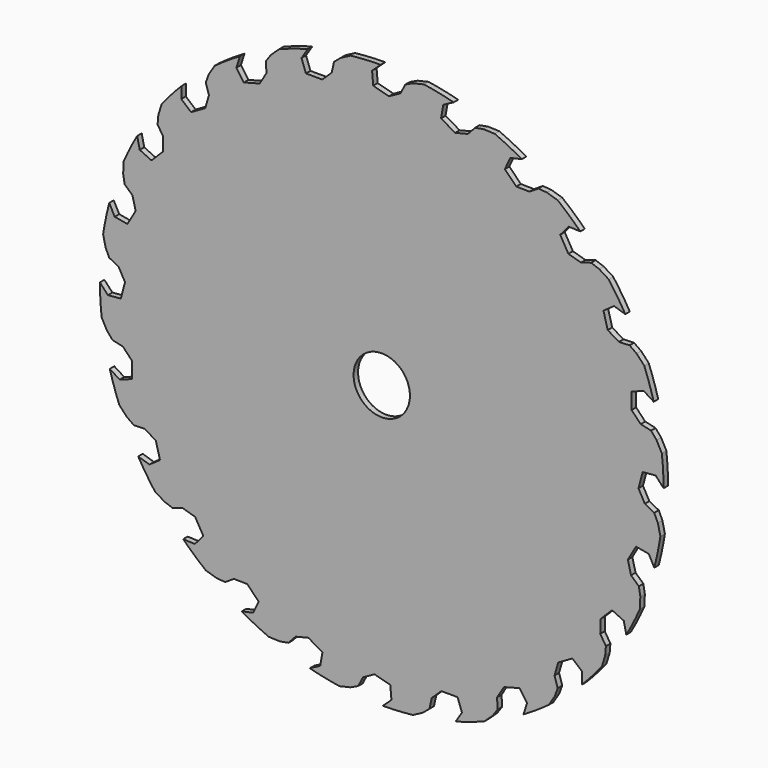
from build123d import *

# Parameters (mm, degrees)
F0_R     = 150
F0_R_2   = 15
F1_DEPTH = 3
F3_DEPTH = 3


with BuildPart() as f1:
    # F0 (on Front) → F1 (new body)
    with BuildSketch(Plane.XZ):
        Circle(F0_R)
        Circle(F0_R_2, mode=Mode.SUBTRACT)
    extrude(amount=F1_DEPTH)

    # F2 (on Front) → F3 (cut, through all)
    with BuildSketch(Plane.XZ):
        Polygon((10.163265, 150.156445), (0, 150.5), (-5.146119, 145.753569), (-4.549851, 138.896823), (3.830216, 136.640653), (9.95411, 140.024916), (12.576324, 145.023248), (16.722625, 146.954582), (23.851933, 148.597898), align=None)
        Polygon((-21.881829, 146.27536), (-15.420768, 149.707882), (-29.046387, 147.670435), (-38.952266, 145.371837), (-42.694569, 139.455223), (-40.343962, 132.986441), (-31.665499, 132.976069), (-26.626183, 137.829996), (-25.386983, 143.336693), align=None)
        Polygon((-58.995073, 135.627713), (-53.642569, 140.615521), (-66.276577, 135.120929), (-75.25, 130.336823), (-77.333454, 123.653234), (-73.388698, 118.013252), (-65.003263, 120.249385), (-61.391946, 126.242189), (-61.620208, 131.881979), align=None)
        Polygon((-92.0879, 115.737263), (-88.208717, 121.940445), (-98.990127, 113.363155), (-106.419571, 106.419571), (-106.702192, 99.424481), (-101.432116, 94.997655), (-93.911161, 99.327904), (-91.973949, 106.051186), (-93.654118, 111.439726), align=None)
        Polygon((-118.905088, 87.959509), (-116.763588, 94.955329), (-124.957663, 83.879869), (-130.336823, 75.25), (-128.799353, 68.420115), (-122.563103, 65.508125), (-116.419169, 71.637391), (-116.288079, 78.63297), (-119.305655, 83.40304), align=None)
        Polygon((-137.619092, 54.18746), (-137.361213, 61.499165), (-142.409542, 48.680308), (-145.371837, 38.952266), (-142.11905, 32.75303), (-135.341617, 31.554325), (-130.993403, 39.064908), (-132.677369, 45.856047), (-136.826709, 49.682575), align=None)
        Polygon((-146.954582, 16.722625), (-148.597898, 23.851933), (-150.156445, 10.163265), (-150.5, 0), (-145.753569, -5.146119), (-138.896823, -4.549851), (-136.640653, 3.830216), (-140.024916, 9.95411), (-145.023248, 12.576324), align=None)
        Polygon((-146.27536, -21.881829), (-149.707882, -15.420768), (-147.670435, -29.046387), (-145.371837, -38.952266), (-139.455223, -42.694569), (-132.986441, -40.343962), (-132.976069, -31.665499), (-137.829996, -26.626183), (-143.336693, -25.386983), align=None)
        Polygon((-135.627713, -58.995073), (-140.615521, -53.642569), (-135.120929, -66.276577), (-130.336823, -75.25), (-123.653234, -77.333454), (-118.013252, -73.388698), (-120.249385, -65.003263), (-126.242189, -61.391946), (-131.881979, -61.620208), align=None)
        Polygon((-115.737263, -92.0879), (-121.940445, -88.208717), (-113.363155, -98.990127), (-106.419571, -106.419571), (-99.424481, -106.702192), (-94.997655, -101.432116), (-99.327904, -93.911161), (-106.051186, -91.973949), (-111.439726, -93.654118), align=None)
        Polygon((-87.959509, -118.905088), (-94.955329, -116.763588), (-83.879869, -124.957663), (-75.25, -130.336823), (-68.420115, -128.799353), (-65.508125, -122.563103), (-71.637391, -116.419169), (-78.63297, -116.288079), (-83.40304, -119.305655), align=None)
        Polygon((-54.18746, -137.619092), (-61.499165, -137.361213), (-48.680308, -142.409542), (-38.952266, -145.371837), (-32.75303, -142.11905), (-31.554325, -135.341617), (-39.064908, -130.993403), (-45.856047, -132.677369), (-49.682575, -136.826709), align=None)
        Polygon((-16.722625, -146.954582), (-23.851933, -148.597898), (-10.163265, -150.156445), (0, -150.5), (5.146119, -145.753569), (4.549851, -138.896823), (-3.830216, -136.640653), (-9.95411, -140.024916), (-12.576324, -145.023248), align=None)
        Polygon((21.881829, -146.27536), (15.420768, -149.707882), (29.046387, -147.670435), (38.952266, -145.371837), (42.694569, -139.455223), (40.343962, -132.986441), (31.665499, -132.976069), (26.626183, -137.829996), (25.386983, -143.336693), align=None)
        Polygon((58.995073, -135.627713), (53.642569, -140.615521), (66.276577, -135.120929), (75.25, -130.336823), (77.333454, -123.653234), (73.388698, -118.013252), (65.003263, -120.249385), (61.391946, -126.242189), (61.620208, -131.881979), align=None)
        Polygon((92.0879, -115.737263), (88.208717, -121.940445), (98.990127, -113.363155), (106.419571, -106.419571), (106.702192, -99.424481), (101.432116, -94.997655), (93.911161, -99.327904), (91.973949, -106.051186), (93.654118, -111.439726), align=None)
        Polygon((118.905088, -87.959509), (116.763588, -94.955329), (124.957663, -83.879869), (130.336823, -75.25), (128.799353, -68.420115), (122.563103, -65.508125), (116.419169, -71.637391), (116.288079, -78.63297), (119.305655, -83.40304), align=None)
        Polygon((137.619092, -54.18746), (137.361213, -61.499165), (142.409542, -48.680308), (145.371837, -38.952266), (142.11905, -32.75303), (135.341617, -31.554325), (130.993403, -39.064908), (132.677369, -45.856047), (136.826709, -49.682575), align=None)
        Polygon((146.954582, -16.722625), (148.597898, -23.851933), (150.156445, -10.163265), (150.5, 0), (145.753569, 5.146119), (138.896823, 4.549851), (136.640653, -3.830216), (140.024916, -9.95411), (145.023248, -12.576324), align=None)
        Polygon((146.27536, 21.881829), (149.707882, 15.420768), (147.670435, 29.046387), (145.371837, 38.952266), (139.455223, 42.694569), (132.986441, 40.343962), (132.976069, 31.665499), (137.829996, 26.626183), (143.336693, 25.386983), align=None)
        Polygon((135.627713, 58.995073), (140.615521, 53.642569), (135.120929, 66.276577), (130.336823, 75.25), (123.653234, 77.333454), (118.013252, 73.388698), (120.249385, 65.003263), (126.242189, 61.391946), (131.881979, 61.620208), align=None)
        Polygon((115.737263, 92.0879), (121.940445, 88.208717), (113.363155, 98.990127), (106.419571, 106.419571), (99.424481, 106.702192), (94.997655, 101.432116), (99.327904, 93.911161), (106.051186, 91.973949), (111.439726, 93.654118), align=None)
        Polygon((87.959509, 118.905088), (94.955329, 116.763588), (83.879869, 124.957663), (75.25, 130.336823), (68.420115, 128.799353), (65.508125, 122.563103), (71.637391, 116.419169), (78.63297, 116.288079), (83.40304, 119.305655), align=None)
        Polygon((54.18746, 137.619092), (61.499165, 137.361213), (48.680308, 142.409542), (38.952266, 145.371837), (32.75303, 142.11905), (31.554325, 135.341617), (39.064908, 130.993403), (45.856047, 132.677369), (49.682575, 136.826709), align=None)
    extrude(amount=F3_DEPTH, mode=Mode.SUBTRACT)


solid = f1.part
